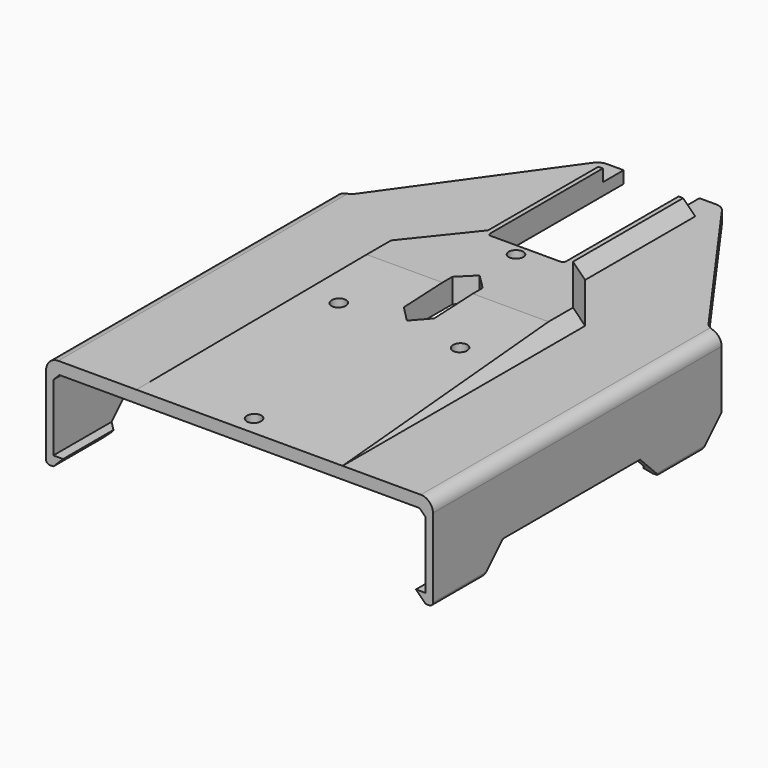
from build123d import *

# Parameters (mm, degrees)
PAD002_DEPTH         = 119
PAD003_DEPTH         = 17
POCKET015_DEPTH      = 119.001
SKETCH040_R          = 1.2
POCKET016_DEPTH      = 20.8744738654
POCKET017_DEPTH      = 16.001
POCKET018_DEPTH      = 16.001
POCKET018_DEPTH_BACK = 1.601
SKETCH044_R          = 1.2
POCKET019_DEPTH      = 1.601
POCKET019_DEPTH_BACK = 16.001
POCKET020_DEPTH      = 27.001
SKETCH048_W          = 4.3
SKETCH048_H          = 2
POCKET021_DEPTH      = 31.9010001
POCKET021_DEPTH_BACK = 31.9010001
POCKET023_DEPTH      = 31.9010001
POCKET023_DEPTH_BACK = 31.9010001
POCKET024_DEPTH      = 1.601


with BuildPart() as part:
    # Sketch033 → Pad002 (new body)
    with BuildSketch(Plane.XZ):
        with BuildLine():
            Line((-30.7, 11), (-30.7, 0))
            Line((-30.7, 0), (-29.1, 0))
            Line((-29.1, 0), (-30.7, -1.6))
            Line((-30.7, -1.6), (-31.3, -1.6))
            ThreePointArc((-31.9, -1), (-31.7242640687, -1.4242640687), (-31.3, -1.6))
            Line((-31.9, -1), (-31.9, 12))
            ThreePointArc((-29.9, 14), (-31.3142135624, 13.4142135624), (-31.9, 12))
            Line((-29.9, 14), (29.9, 14))
            ThreePointArc((31.9, 12), (31.3142135624, 13.4142135624), (29.9, 14))
            Line((31.9, -1), (31.9, 12))
            ThreePointArc((31.3, -1.6), (31.7242640687, -1.4242640687), (31.9, -1))
            Line((30.7, -1.6), (31.3, -1.6))
            Line((29.1, 0), (30.7, -1.6))
            Line((30.7, 0), (29.1, 0))
            Line((30.7, 11), (30.7, 0))
            Line((29.7, 12), (30.7, 11))
            Line((-29.7, 12), (29.7, 12))
            Line((-30.7, 11), (-29.7, 12))
        make_face()
    extrude(amount=-PAD002_DEPTH)

    # Sketch034 → Pad003 (join, symmetric)
    with BuildSketch(Plane.YZ):
        Polygon((0, 14), (119, 14), (119, 16), (44.955533586, 16), align=None)
    extrude(amount=PAD003_DEPTH, both=True)

    # Sketch039 → Pocket015 (cut, through all)
    with BuildSketch(Plane.XZ):
        Polygon((-17, 14), (-15, 16), (15, 16), (17, 14), (31.9, 14), (31.9, 26), (-31.9, 26), (-31.9, 14), align=None)
    extrude(amount=-POCKET015_DEPTH, mode=Mode.SUBTRACT)

    # Sketch040 (on DatumPlane) → Pocket016 (cut, through all)
    with BuildSketch(Plane(origin=(0, 0, 14), x_dir=(1, 0, 0), z_dir=(0, -0.0444444444, 0.9990118575))):
        with Locations((-10, 33)):
            Circle(SKETCH040_R)
        with Locations((10, 33)):
            Circle(SKETCH040_R)
        with Locations((0, 3)):
            Circle(SKETCH040_R)
    extrude(amount=-POCKET016_DEPTH, mode=Mode.SUBTRACT)

    # Sketch041 → Pocket017 (cut, through all)
    with BuildSketch(Plane.XY):
        Polygon((0, 49.5), (-2.5, 47), (-2.5, 37), (0, 34.5), (2.5, 37), (2.5, 47), align=None)
    extrude(amount=POCKET017_DEPTH, mode=Mode.SUBTRACT)

    # Sketch043 → Pocket018 (cut, two sides)
    with BuildSketch(Plane.XY) as pocket018_sk:
        with BuildLine():
            Line((-9, 87), (9, 87))
            ThreePointArc((10.6275065469, 86.1624209391), (9.9151934555, 86.7783196954), (9, 87))
            Line((10.6275065469, 86.1624209391), (29.0724934531, 60.3375790609))
            ThreePointArc((29.0724934531, 60.3375790609), (29.7848065445, 59.7216803046), (30.7, 59.5))
            Line((30.7, 59.5), (61.4, 59.5))
            Line((61.4, 119), (61.4, 59.5))
            Line((-61.4, 119), (61.4, 119))
            Line((-61.4, 59.5), (-61.4, 119))
            Line((-30.7, 59.5), (-61.4, 59.5))
            ThreePointArc((-30.7, 59.5), (-29.7848065445, 59.7216803046), (-29.0724934531, 60.3375790609))
            Line((-10.6275065469, 86.1624209391), (-29.0724934531, 60.3375790609))
            ThreePointArc((-9, 87), (-9.9151934555, 86.7783196954), (-10.6275065469, 86.1624209391))
        make_face()
    extrude(amount=POCKET018_DEPTH, mode=Mode.SUBTRACT)
    extrude(pocket018_sk.sketch, amount=-POCKET018_DEPTH_BACK, mode=Mode.SUBTRACT)

    # Sketch044 → Pocket019 (cut, two sides)
    with BuildSketch(Plane.XY) as pocket019_sk:
        with Locations((0, 57)):
            Circle(SKETCH044_R)
        with BuildLine():
            Line((-6.25, 119), (6.25, 119))
            Line((6.25, 119), (6.25, 59.5))
            ThreePointArc((5.75, 59), (6.1035533906, 59.1464466094), (6.25, 59.5))
            Line((5.75, 59), (-5.75, 59))
            ThreePointArc((-6.25, 59.5), (-6.1035533906, 59.1464466094), (-5.75, 59))
            Line((-6.25, 59.5), (-6.25, 119))
        make_face()
    extrude(amount=-POCKET019_DEPTH, mode=Mode.SUBTRACT)
    extrude(pocket019_sk.sketch, amount=POCKET019_DEPTH_BACK, mode=Mode.SUBTRACT)

    # Sketch045 (on DatumPlane) → SubtractiveLoft001 section 0
    with BuildSketch(Plane.XZ.offset(-50)):
        Polygon((-17, 14), (-15, 16), (15, 16), (17, 14), (31.9, 14), (31.9, 26), (-31.9, 26), (-31.9, 14), align=None)
    # Sketch046 (on DatumPlane) → SubtractiveLoft001 section 1
    with BuildSketch(Plane.XZ.offset(-60)):
        Polygon((-9, 14), (-7, 16), (7, 16), (9, 14), (31.9, 14), (31.9, 26), (-31.9, 26), (-31.9, 14), align=None)
    loft(mode=Mode.SUBTRACT)

    # Sketch047 (on DatumPlane) → Pocket020 (cut, through all)
    with BuildSketch(Plane.XZ.offset(-60)):
        Polygon((-9, 14), (-7, 16), (7, 16), (9, 14), (31.9, 14), (31.9, 26), (-31.9, 26), (-31.9, 14), align=None)
    extrude(amount=-POCKET020_DEPTH, mode=Mode.SUBTRACT)

    # Sketch048 → Pocket021 (cut, two sides)
    with BuildSketch(Plane.YZ) as pocket021_sk:
        with Locations((84.85, 15)):
            Rectangle(SKETCH048_W, SKETCH048_H)
    extrude(amount=-POCKET021_DEPTH, mode=Mode.SUBTRACT)
    extrude(pocket021_sk.sketch, amount=POCKET021_DEPTH_BACK, mode=Mode.SUBTRACT)

    # Sketch051 → Pocket023 (cut, two sides)
    with BuildSketch(Plane.YZ) as pocket023_sk:
        Polygon((0, -1.6), (10.4, -1.6), (14.4, 2.4), (42.7, 2.4), (46.7, -1.6), (55.5, -1.6), (59.5, 2.4), (63.5, 2.4), (63.5, -13.6), (0, -13.6), align=None)
    extrude(amount=-POCKET023_DEPTH, mode=Mode.SUBTRACT)
    extrude(pocket023_sk.sketch, amount=POCKET023_DEPTH_BACK, mode=Mode.SUBTRACT)

    # Sketch052 → Pocket024 (cut, through all)
    with BuildSketch(Plane.XY):
        Polygon((-29.1, 10.4), (29.1, 10.4), (30.7, 12), (30.7, 45.1), (29.1, 46.7), (29.1, 55.5), (30.7, 57.1), (30.7, 69.1), (-30.7, 69.1), (-30.7, 57.1), (-29.1, 55.5), (-29.1, 46.7), (-30.7, 45.1), (-30.7, 12), align=None)
    extrude(amount=-POCKET024_DEPTH, mode=Mode.SUBTRACT)


with BuildPart() as part_1:
    # Body002 placement: moved
    add(part.part.moved(Location((0, 18, 5))))


solid = part_1.part
